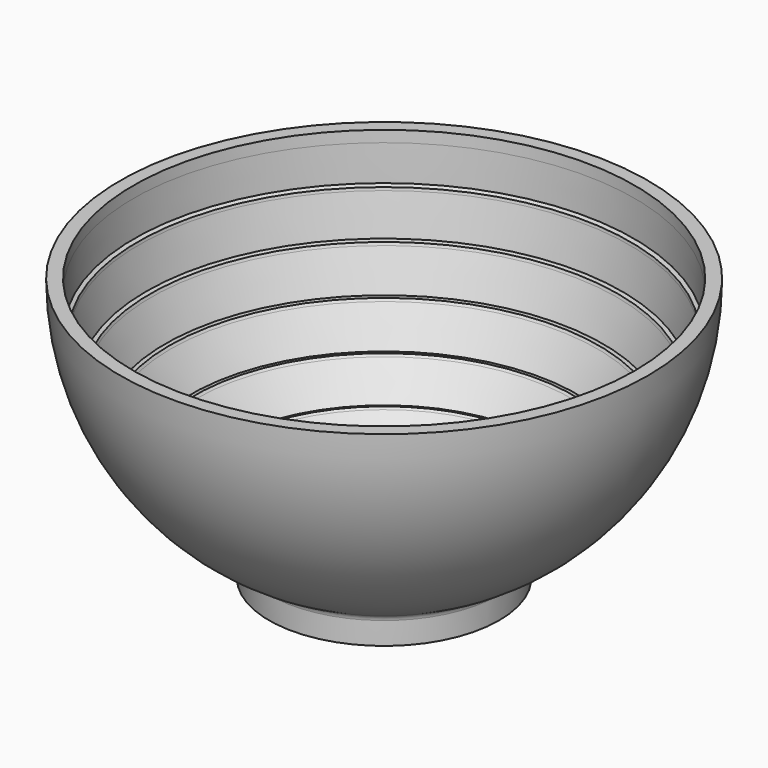
from build123d import *

# Parameters (mm, degrees)
F2_R = 5
F3_T = -10


with BuildPart() as f1:
    # F0 (on Front) → F1 (revolve)
    with BuildSketch(Plane.XZ):
        with BuildLine():
            Line((0, 0), (0, -200))
            ThreePointArc((0, -200), (44.72135955, -194.9358868962), (87.1779788708, -180))
            ThreePointArc((87.1779788708, -180), (169.4632641226, -106.2177109192), (200, 0))
            Line((200, 0), (0, 0))
        make_face()
        with BuildLine():
            ThreePointArc((87.1779788708, -180), (44.72135955, -194.9358868962), (0, -200))
            Line((0, -200), (87.1779788708, -200))
            Line((87.1779788708, -200), (87.1779788708, -180))
        make_face()
    revolve(axis=Axis((0, 0, -100), (0, 0, 1)))

    # F2
    f2_edges = [f1.edges().sort_by_distance(p)[0] for p in [
        (-87.177979, 0, -180),
    ]]
    fillet(f2_edges, radius=F2_R)

    # F3
    f3_openings = [f1.faces().sort_by_distance(p)[0] for p in [
        (0, 0, 0),
    ]]
    offset(amount=F3_T, openings=f3_openings)


with BuildPart() as f5:
    # F4 (on face) → F5 (revolve)
    with BuildSketch(Plane.XZ):
        with BuildLine():
            Line((190, 0), (189.8106289646, -8.4808685904))
            ThreePointArc((189.8106289646, -8.4808685904), (189.9526513414, -4.2414912895), (190, 0))
        make_face()
    revolve(axis=Axis((0, 0, -100), (0, 0, 1)))


with BuildPart() as f5b:
    # F4 (on face) → F5, piece 2 (revolve)
    with BuildSketch(Plane.XZ):
        with BuildLine():
            ThreePointArc((189.8106289646, -8.4808685904), (188.6642077169, -22.4903696405), (186.4852005998, -36.3767777193))
            Line((186.4852005998, -36.3767777193), (189.215494745, -35.1335987777))
            Line((189.215494745, -35.1335987777), (189.8106289646, -8.4808685904))
        make_face()
    revolve(axis=Axis((0, 0, -100), (0, 0, 1)))


with BuildPart() as f5c:
    # F4 (on face) → F5, piece 3 (revolve)
    with BuildSketch(Plane.XZ):
        with BuildLine():
            Line((186.4852005998, -36.3767777193), (186.0620361102, -38.4827067462))
            ThreePointArc((186.0620361102, -38.4827067462), (186.2765944217, -37.4303402423), (186.4852005998, -36.3767777193))
        make_face()
    revolve(axis=Axis((0, 0, -100), (0, 0, 1)))


with BuildPart() as f5d:
    # F4 (on face) → F5, piece 4 (revolve)
    with BuildSketch(Plane.XZ):
        with BuildLine():
            ThreePointArc((186.0620361102, -38.4827067462), (182.3054866364, -53.5229814405), (177.3353102124, -68.2069479736))
            Line((177.3353102124, -68.2069479736), (180.2400008123, -67.4567663163))
            Line((180.2400008123, -67.4567663163), (186.0620361102, -38.4827067462))
        make_face()
    revolve(axis=Axis((0, 0, -100), (0, 0, 1)))


with BuildPart() as f5e:
    # F4 (on face) → F5, piece 5 (revolve)
    with BuildSketch(Plane.XZ):
        with BuildLine():
            Line((177.3353102124, -68.2069479736), (176.5528838044, -70.207401464))
            ThreePointArc((176.5528838044, -70.207401464), (176.9469240187, -69.2082804319), (177.3353102124, -68.2069479736))
        make_face()
    revolve(axis=Axis((0, 0, -100), (0, 0, 1)))


with BuildPart() as f5f:
    # F4 (on face) → F5, piece 6 (revolve)
    with BuildSketch(Plane.XZ):
        with BuildLine():
            ThreePointArc((176.5528838044, -70.207401464), (170.2416884657, -84.36686262), (162.7971761601, -97.9646846281))
            Line((162.7971761601, -97.9646846281), (165.7880056607, -97.7302941451))
            Line((165.7880056607, -97.7302941451), (176.5528838044, -70.207401464))
        make_face()
    revolve(axis=Axis((0, 0, -100), (0, 0, 1)))


with BuildPart() as f5g:
    # F4 (on face) → F5, piece 7 (revolve)
    with BuildSketch(Plane.XZ):
        with BuildLine():
            Line((162.7971761601, -97.9646846281), (161.6792614643, -99.7988798151))
            ThreePointArc((161.6792614643, -99.7988798151), (162.2408108688, -98.8833620415), (162.7971761601, -97.9646846281))
        make_face()
    revolve(axis=Axis((0, 0, -100), (0, 0, 1)))


with BuildPart() as f5h:
    # F4 (on face) → F5, piece 8 (revolve)
    with BuildSketch(Plane.XZ):
        with BuildLine():
            ThreePointArc((161.6792614643, -99.7988798151), (153.0051827375, -112.6472993705), (143.3125322896, -124.7458139127))
            Line((143.3125322896, -124.7458139127), (146.2986258499, -125.0343364403))
            Line((146.2986258499, -125.0343364403), (161.6792614643, -99.7988798151))
        make_face()
    revolve(axis=Axis((0, 0, -100), (0, 0, 1)))


with BuildPart() as f5i:
    # F4 (on face) → F5, piece 9 (revolve)
    with BuildSketch(Plane.XZ):
        with BuildLine():
            Line((143.3125322896, -124.7458139127), (141.8930965783, -126.3580197037))
            ThreePointArc((141.8930965783, -126.3580197037), (142.6050927785, -125.553922733), (143.3125322896, -124.7458139127))
        make_face()
    revolve(axis=Axis((0, 0, -100), (0, 0, 1)))


with BuildPart() as f5j:
    # F4 (on face) → F5, piece 10 (revolve)
    with BuildSketch(Plane.XZ):
        with BuildLine():
            ThreePointArc((141.8930965783, -126.3580197037), (131.1196919561, -137.5050049319), (119.4734096451, -147.736604766))
            Line((119.4734096451, -147.736604766), (122.3640363234, -148.5392736932))
            Line((122.3640363234, -148.5392736932), (141.8930965783, -126.3580197037))
        make_face()
    revolve(axis=Axis((0, 0, -100), (0, 0, 1)))


with BuildPart() as f5k:
    # F4 (on face) → F5, piece 11 (revolve)
    with BuildSketch(Plane.XZ):
        with BuildLine():
            Line((119.4734096451, -147.736604766), (117.795581754, -149.0778351038))
            ThreePointArc((117.795581754, -149.0778351038), (118.6363911057, -148.4095910156), (119.4734096451, -147.736604766))
        make_face()
    revolve(axis=Axis((0, 0, -100), (0, 0, 1)))


with BuildPart() as f5l:
    # F4 (on face) → F5, piece 12 (revolve)
    with BuildSketch(Plane.XZ):
        with BuildLine():
            Line((92.004147905, -166.2384936417), (94.7114774724, -167.5309202794))
            Line((94.7114774724, -167.5309202794), (117.795581754, -149.0778351038))
            ThreePointArc((117.795581754, -149.0778351038), (105.2501956844, -158.1846904994), (92.004147905, -166.2384936417))
        make_face()
    revolve(axis=Axis((0, 0, -100), (0, 0, 1)))


with BuildPart() as f1_1:
    add(f1.part)

    # F6: cut F5, F5b, F5c, F5d, F5e, F5f, F5g, F5h, F5i, F5j, F5k, F5l
    add(f5.part, mode=Mode.SUBTRACT)
    add(f5b.part, mode=Mode.SUBTRACT)
    add(f5c.part, mode=Mode.SUBTRACT)
    add(f5d.part, mode=Mode.SUBTRACT)
    add(f5e.part, mode=Mode.SUBTRACT)
    add(f5f.part, mode=Mode.SUBTRACT)
    add(f5g.part, mode=Mode.SUBTRACT)
    add(f5h.part, mode=Mode.SUBTRACT)
    add(f5i.part, mode=Mode.SUBTRACT)
    add(f5j.part, mode=Mode.SUBTRACT)
    add(f5k.part, mode=Mode.SUBTRACT)
    add(f5l.part, mode=Mode.SUBTRACT)


solid = f1_1.part
